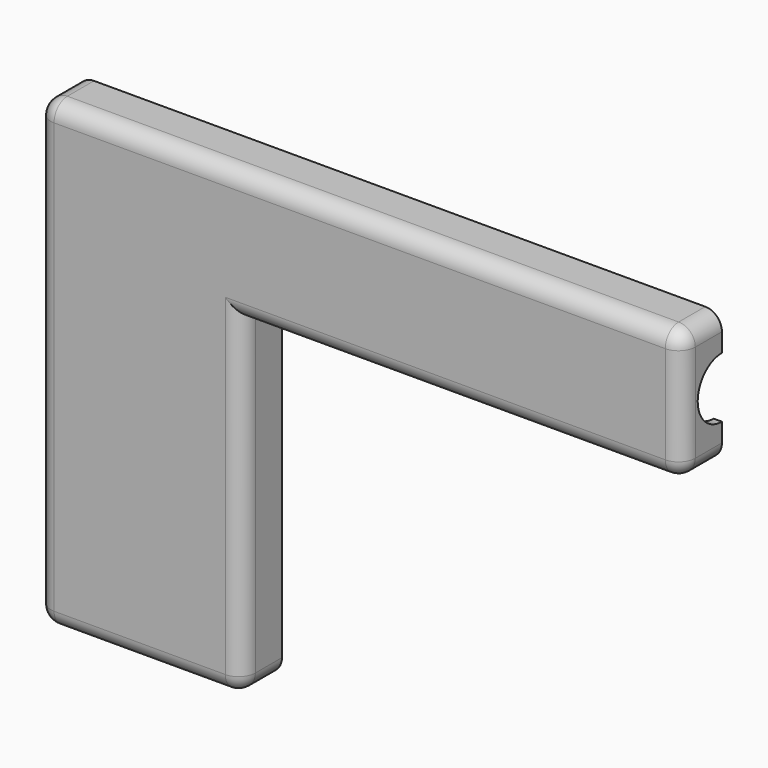
from build123d import *

# Parameters (mm, degrees)
F1_DEPTH = 15.24
F2_T     = -2.54
F3_R     = 5.08
F5_D     = 18.47
F5_DEPTH = 14
F5_TIP   = 5.5489478167


with BuildPart() as f1:
    # F0 (on Front) → F1 (new body)
    with BuildSketch(Plane.XZ):
        Polygon((86.5705514472, 17.0364904519), (86.5705514472, 57.0414904519), (-110.0254485528, 57.0414904519), (-110.0254485528, -84.2587095481), (-47.6176485528, -84.2587095481), (-47.6176485528, 17.0364904519), align=None)
    extrude(amount=F1_DEPTH)

    # F2
    f2_openings = [f1.faces().sort_by_distance(p)[0] for p in [
        (19.476451, 0, 19.457559),
    ]]
    offset(amount=F2_T, openings=f2_openings, kind=Kind.INTERSECTION)

    # F3
    f3_edges = [f1.edges().sort_by_distance(p)[0] for p in [
        (-110.025449, -15.24, -13.60861),
        (-47.617649, -15.24, -33.61111),
        (-78.821549, -15.24, -84.25871),
        (-110.025449, -7.62, -84.25871),
        (-11.727449, -15.24, 57.04149),
        (19.476451, -15.24, 17.03649),
        (-110.025449, -7.62, 57.04149),
        (86.570551, -15.24, 37.03899),
        (86.570551, -7.62, 57.04149),
        (86.570551, -7.62, 17.03649),
        (-47.617649, -7.62, -84.25871),
    ]]
    fillet(f3_edges, radius=F3_R)

    # F5
    with Locations(Plane.YZ.offset(86.5705514472)):
        with Locations((0, 37.0389904519)):
            Hole(F5_D / 2, depth=F5_DEPTH)
            with Locations((0, 0, -(F5_DEPTH + F5_TIP / 2))):  # 118° drill point
                Cone(0, F5_D / 2, F5_TIP, mode=Mode.SUBTRACT)


solid = f1.part
